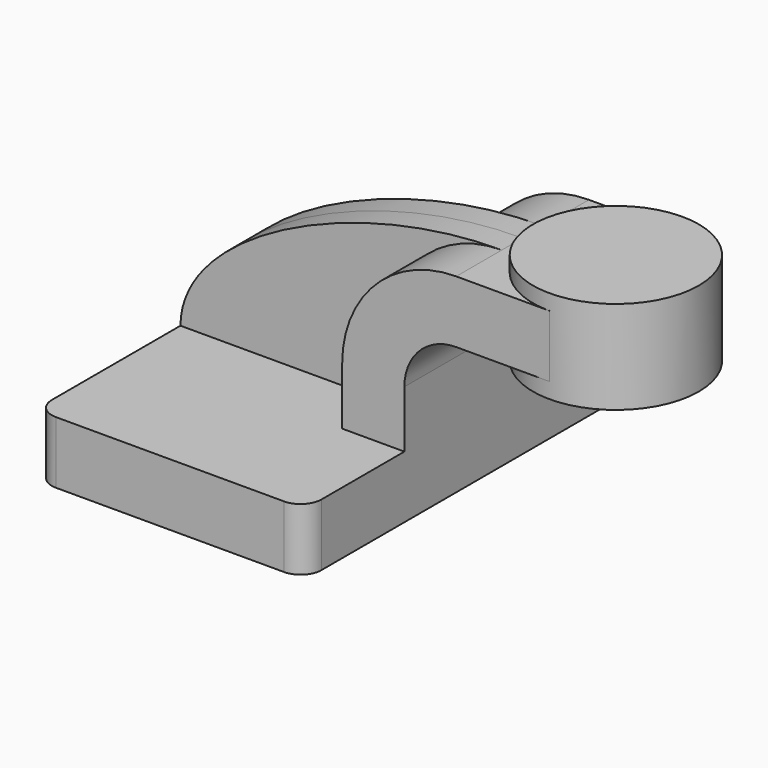
from build123d import *

# Parameters (mm, degrees)
F1_DEPTH = 63.5
F0_W     = 25.4
F0_H     = 19.05
F2_DEPTH = 25.4
F3_DEPTH = 7.9375
F5_R     = 6.35


with BuildPart() as f1:
    # F0 (on Front) → F1 (new body, symmetric)
    with BuildSketch(Plane.XZ):
        Polygon((41.275, -9.525), (41.275, 9.525), (22.225, 9.525), (-41.275, 9.525), (-41.275, -9.525), align=None)
    extrude(amount=F1_DEPTH, both=True)

    # F0 (on Front) → F2 (join, symmetric)
    with BuildSketch(Plane.XZ):
        with BuildLine():
            Line((22.225, 9.525), (41.275, 9.525))
            Line((41.275, 9.525), (41.275, 27.0002))
            ThreePointArc((41.275, 27.0002), (45.9246798487, 38.2255201513), (57.15, 42.8752))
            Line((57.15, 42.8752), (60.325, 42.8752))
            Line((60.325, 42.8752), (60.325, 61.9252))
            Line((60.325, 61.9252), (57.15, 61.9252))
            ThreePointArc((57.15, 61.9252), (32.4542956671, 51.6959043329), (22.225, 27.0002))
            Line((22.225, 27.0002), (22.225, 9.525))
        make_face()
        with Locations((73.025, 52.4002)):
            Rectangle(F0_W, F0_H)
        with Locations((73.025, 52.4002)):
            Rectangle(F0_W, F0_H)
    extrude(amount=F2_DEPTH, both=True)

    # F0 (on Front) → F3 (join, symmetric)
    with BuildSketch(Plane.XZ):
        with BuildLine():
            Line((-41.275, 9.525), (22.225, 9.525))
            Line((22.225, 9.525), (22.225, 27.0002))
            ThreePointArc((22.225, 27.0002), (32.4542956671, 51.6959043329), (57.15, 61.9252))
            add(Edge.make_bspline(
                [(-41.275, 9.525), (-41.0974510014, 36.8933305144), (12.0116397738, 62.062419951), (57.15, 61.9252)],
                knots=[0, 0, 0, 0, 111.5045361635, 111.5045361635, 111.5045361635, 111.5045361635], degree=3))
        make_face()
    extrude(amount=F3_DEPTH, both=True)

    # F5
    f5_edges = [f1.edges().sort_by_distance(p)[0] for p in [
        (41.275, -63.5, 0),
        (-41.275, -63.5, 0),
        (41.275, 63.5, 0),
        (-41.275, 63.5, 0),
    ]]
    fillet(f5_edges, radius=F5_R)


with BuildPart() as f4:
    # F0 (on Front) → F4 (revolve)
    with BuildSketch(Plane.XZ):
        Polygon((85.725, 61.9252), (85.725, 42.8752), (85.725, 38.1), (111.125, 38.1), (111.125, 66.675), (85.725, 66.675), align=None)
    revolve(axis=Axis((85.725, 0, 52.3875), (0, 0, -1)))


solid = Compound([f1.part, f4.part])
